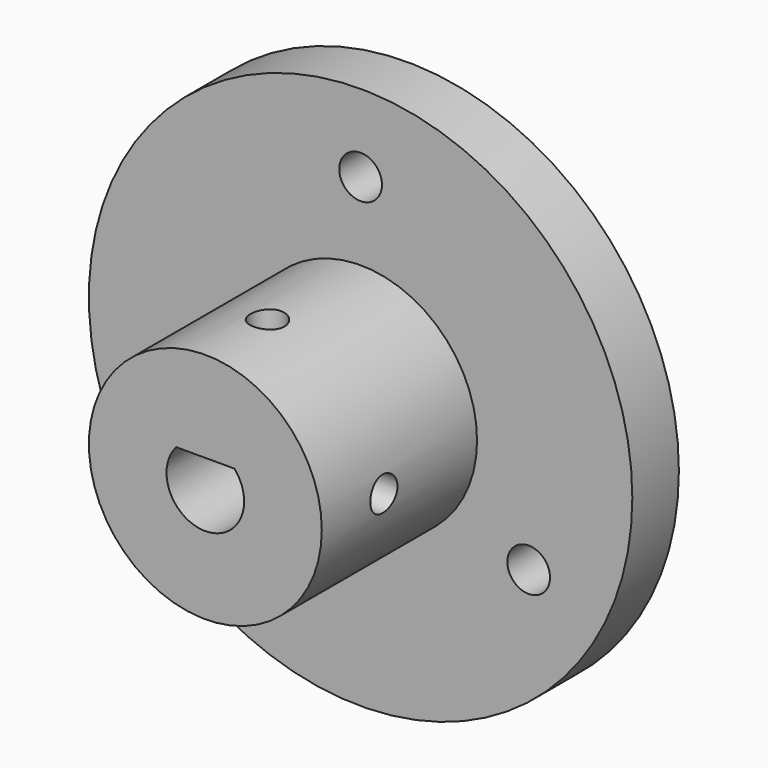
from build123d import *

# Parameters (mm, degrees)
F0_R     = 14
F0_R_2   = 1.1
F1_DEPTH = 3
F2_R     = 6
F3_DEPTH = 10
F5_DEPTH = 13.001
F6_R     = 0.875
F7_DEPTH = 14.001
F8_R     = 0.875
F9_DEPTH = 14.001


with BuildPart() as f1:
    # F0 (on Front) → F1 (new body)
    with BuildSketch(Plane.XZ):
        Circle(F0_R)
        with Locations((-8.660254, -5)):
            Circle(F0_R_2, mode=Mode.SUBTRACT)
        with Locations((8.660254, -5)):
            Circle(F0_R_2, mode=Mode.SUBTRACT)
        with Locations((0, 10)):
            Circle(F0_R_2, mode=Mode.SUBTRACT)
    extrude(amount=F1_DEPTH)

    # F2 (on face) → F3 (join)
    with BuildSketch(Plane.XZ.offset(3)):
        Circle(F2_R)
    extrude(amount=F3_DEPTH)

    # F4 (on face) → F5 (cut, through all)
    with BuildSketch(Plane.XZ.offset(13)):
        with BuildLine():
            Line((1.5, 1.322876), (-1.5, 1.322876))
            ThreePointArc((-1.5, 1.322876), (0, -2), (1.5, 1.322876))
        make_face()
    extrude(amount=-F5_DEPTH, mode=Mode.SUBTRACT)

    # F6 (on Top) → F7 (cut, through all)
    with BuildSketch(Plane.XY):
        with Locations((0, -9)):
            Circle(F6_R)
    extrude(amount=F7_DEPTH, mode=Mode.SUBTRACT)

    # F8 (on Right) → F9 (cut, through all)
    with BuildSketch(Plane.YZ):
        with Locations((-9, 0)):
            Circle(F8_R)
    extrude(amount=F9_DEPTH, mode=Mode.SUBTRACT)


solid = f1.part
